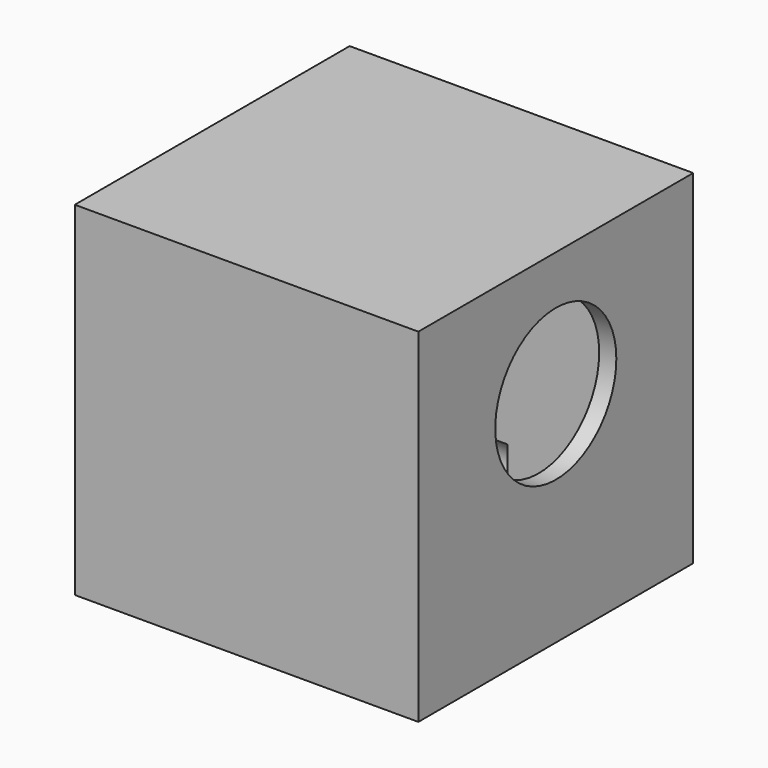
from build123d import *

# Parameters (mm, degrees)
F0_W      = 50.8
F0_H      = 50.8
F1_DEPTH  = 50.8
F3_T      = -2.54
F2_R      = 11.1895018243
F4_DEPTH  = 2.54
F5_W      = 11.6650760174
F5_H      = 3.2993815839
F6_DEPTH  = 25.4
F7_R      = 2.5171305481
F8_DEPTH  = 25.4
F9_R      = 2.9308146248
F9_R_2    = 3.9125837807
F9_W      = 7.4259676039
F9_H      = 3.2972879708
F10_DEPTH = 25.4


with BuildPart() as f1:
    # F0 (on Top) → F1 (new body)
    with BuildSketch(Plane.XY):
        Rectangle(F0_W, F0_H)
    extrude(amount=F1_DEPTH)

    # F3 (hollow: no face is removed)
    offset(amount=F3_T, mode=Mode.SUBTRACT)

    # F2 (on face) → F4 (cut, through all)
    with BuildSketch(Plane.YZ.offset(25.4)):
        with Locations((0, 32.3844626546)):
            Circle(F2_R)
    extrude(amount=-F4_DEPTH, mode=Mode.SUBTRACT)

    # F5 (on face) → F6 (cut)
    with BuildSketch(Plane(origin=(0, 25.4, 0), x_dir=(-1, 0, 0), z_dir=(0, 1, 0))):
        with Locations((-17.2344464809, 4.7428607941)):
            Rectangle(F5_W, F5_H)
    extrude(amount=-F6_DEPTH, mode=Mode.SUBTRACT)

    # F7 (on face) → F8 (cut)
    with BuildSketch(Plane(origin=(0, 25.4, 0), x_dir=(-1, 0, 0), z_dir=(0, 1, 0))):
        with Locations((-21.0335571319, 45.9851287305)):
            Circle(F7_R)
    extrude(amount=-F8_DEPTH, mode=Mode.SUBTRACT)

    # F9 (on face) → F10 (cut)
    with BuildSketch(Plane(origin=(-25.4, 0, 0), x_dir=(0, -1, 0), z_dir=(-1, 0, 0))):
        with Locations((-21.4459802955, 45.7789190114)):
            Circle(F9_R)
        with Locations((-20.2087108046, 5.3614946082)):
            Circle(F9_R_2)
        with Locations((19.1762130708, 3.9165434428)):
            Rectangle(F9_W, F9_H)
    extrude(amount=-F10_DEPTH, mode=Mode.SUBTRACT)


solid = f1.part
